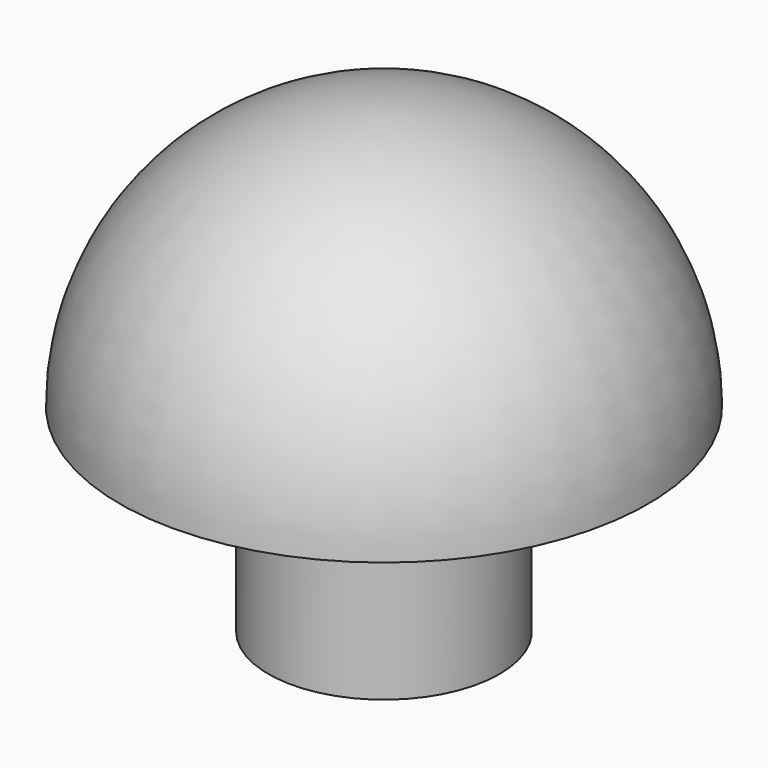
from build123d import *

# Parameters (mm, degrees)
F0_R     = 3.5
F2_DEPTH = 6


with BuildPart() as f2:
    # F0 (on Top) → F2 (new body)
    with BuildSketch(Plane.XY):
        Circle(F0_R)
    extrude(amount=-F2_DEPTH)

    # F1 (on Right) → F3 (revolve)
    with BuildSketch(Plane.YZ):
        with BuildLine():
            Line((0, 0), (0, 8))
            ThreePointArc((0, 8), (-5.656854, 5.656854), (-8, 0))
            Line((-8, 0), (0, 0))
        make_face()
    revolve(axis=Axis((0, 0, 2.131951), (0, 0, 1)))


solid = f2.part
